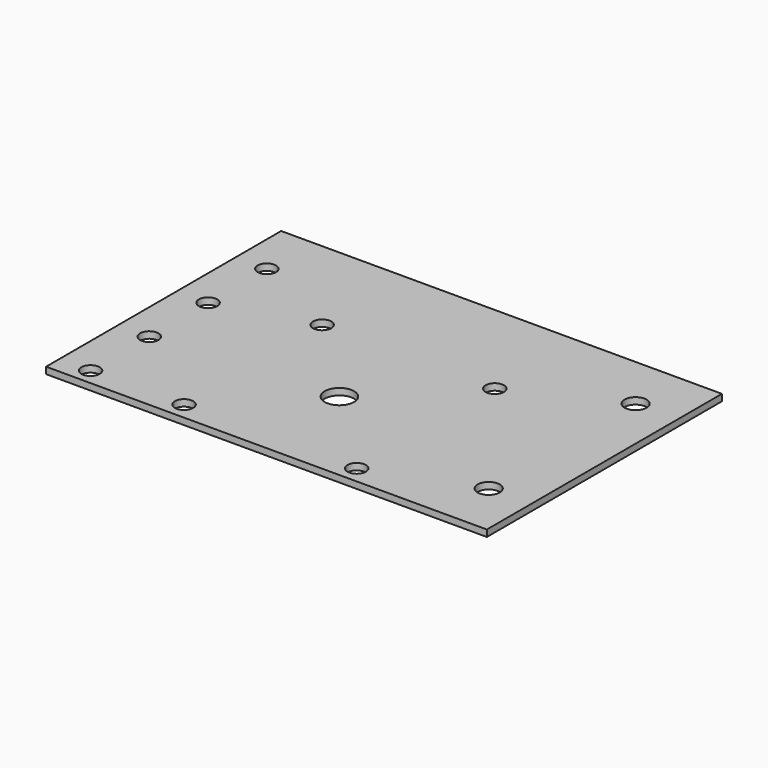
from build123d import *

# Parameters (mm, degrees)
SKETCH_W   = 120
SKETCH_H   = 80
SKETCH_R   = 2.5
SKETCH_R_2 = 4
SKETCH_R_3 = 3
PAD_DEPTH  = 1.8


with BuildPart() as part:
    # Sketch → Pad (new body)
    with BuildSketch(Plane.XY):
        with Locations((60, 40)):
            Rectangle(SKETCH_W, SKETCH_H)
        with Locations((8.5, 4.5)):
            Circle(SKETCH_R, mode=Mode.SUBTRACT)
        with Locations((8.5, 24.5)):
            Circle(SKETCH_R, mode=Mode.SUBTRACT)
        with Locations((8.5, 44.5)):
            Circle(SKETCH_R, mode=Mode.SUBTRACT)
        with Locations((8.5, 64.5)):
            Circle(SKETCH_R, mode=Mode.SUBTRACT)
        with Locations((33.8, 51.7)):
            Circle(SKETCH_R, mode=Mode.SUBTRACT)
        with Locations((80.8, 51.7)):
            Circle(SKETCH_R, mode=Mode.SUBTRACT)
        with Locations((33.8, 4.7)):
            Circle(SKETCH_R, mode=Mode.SUBTRACT)
        with Locations((80.8, 4.7)):
            Circle(SKETCH_R, mode=Mode.SUBTRACT)
        with Locations((57.3, 28.2)):
            Circle(SKETCH_R_2, mode=Mode.SUBTRACT)
        with Locations((108.5, 15)):
            Circle(SKETCH_R_3, mode=Mode.SUBTRACT)
        with Locations((108.5, 65)):
            Circle(SKETCH_R_3, mode=Mode.SUBTRACT)
    extrude(amount=PAD_DEPTH)


solid = part.part
